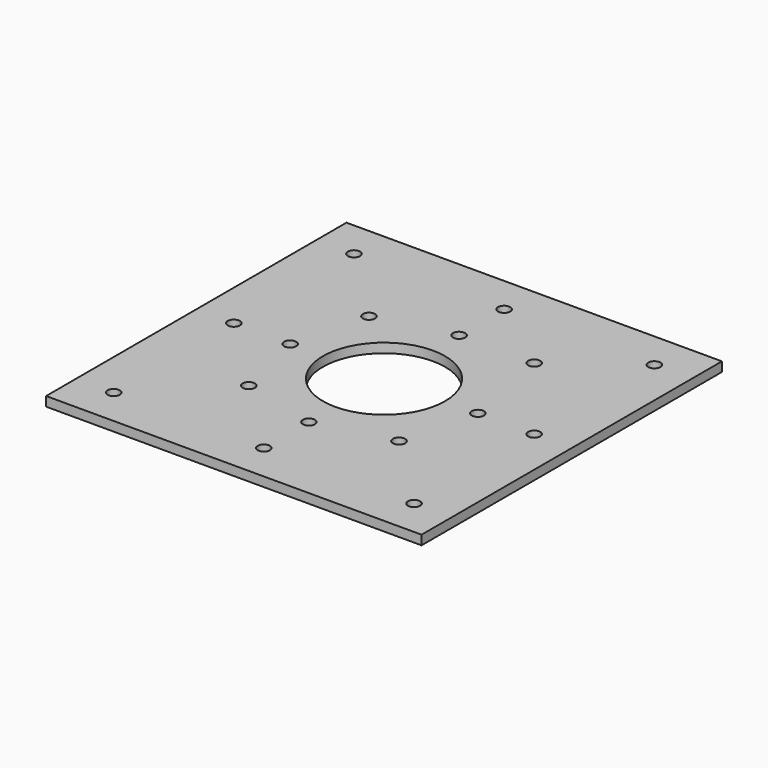
from build123d import *

# Parameters (mm, degrees)
F0_W     = 400
F0_H     = 400
F0_R     = 6.5
F0_R_2   = 65
F1_DEPTH = 10


with BuildPart() as f1:
    # F0 (on Top) → F1 (new body)
    with BuildSketch(Plane.XY):
        with Locations((0, 38.615024)):
            Rectangle(F0_W, F0_H)
        with Locations((-160, -121.384976)):
            Circle(F0_R, mode=Mode.SUBTRACT)
        with Locations((-160, 38.615024)):
            Circle(F0_R, mode=Mode.SUBTRACT)
        with Locations((-80, -41.384976)):
            Circle(F0_R, mode=Mode.SUBTRACT)
        with Locations((0, -121.384976)):
            Circle(F0_R, mode=Mode.SUBTRACT)
        with Locations((160, -121.384976)):
            Circle(F0_R, mode=Mode.SUBTRACT)
        with Locations((0, -61.384976)):
            Circle(F0_R, mode=Mode.SUBTRACT)
        with Locations((80, -41.384976)):
            Circle(F0_R, mode=Mode.SUBTRACT)
        with Locations((-100, 38.615024)):
            Circle(F0_R, mode=Mode.SUBTRACT)
        with Locations((-80, 118.615024)):
            Circle(F0_R, mode=Mode.SUBTRACT)
        with Locations((-160, 198.615024)):
            Circle(F0_R, mode=Mode.SUBTRACT)
        with Locations((0, 38.615024)):
            Circle(F0_R_2, mode=Mode.SUBTRACT)
        with Locations((100, 38.615024)):
            Circle(F0_R, mode=Mode.SUBTRACT)
        with Locations((160, 38.615024)):
            Circle(F0_R, mode=Mode.SUBTRACT)
        with Locations((0, 138.615024)):
            Circle(F0_R, mode=Mode.SUBTRACT)
        with Locations((80, 138.615024)):
            Circle(F0_R, mode=Mode.SUBTRACT)
        with Locations((0, 198.615024)):
            Circle(F0_R, mode=Mode.SUBTRACT)
        with Locations((160, 198.615024)):
            Circle(F0_R, mode=Mode.SUBTRACT)
    extrude(amount=F1_DEPTH)


solid = f1.part
